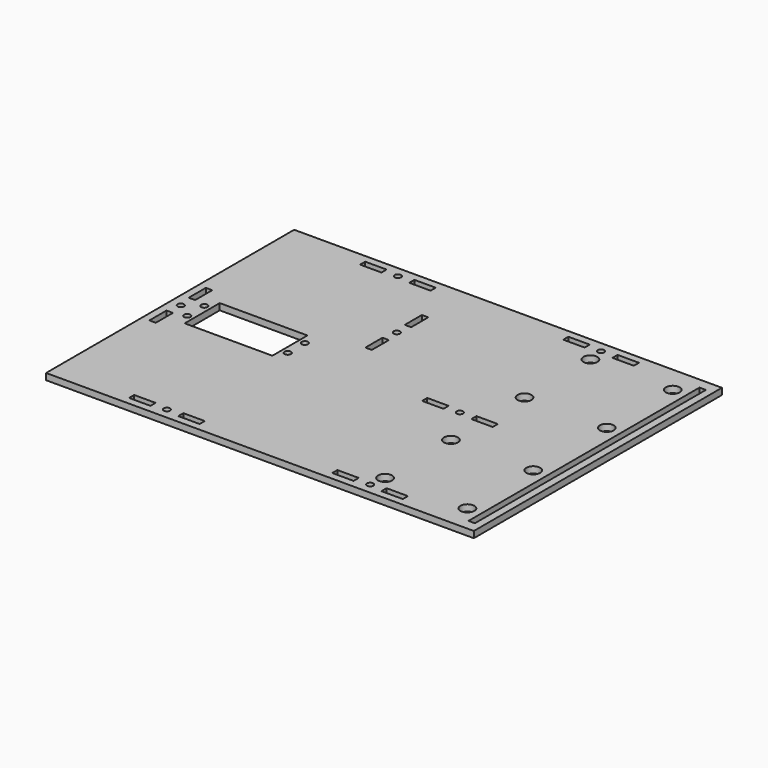
from build123d import *

# Parameters (mm, degrees)
F0_W     = 200
F0_H     = 145
F0_W_2   = 10
F0_H_2   = 3
F0_R     = 1.5
F0_W_3   = 3
F0_H_3   = 10
F0_R_2   = 3.25
F0_H_4   = 135
F0_W_4   = 41
F0_H_5   = 20.5
F1_DEPTH = 3


with BuildPart() as f1:
    # F0 (on Top) → F1 (new body)
    with BuildSketch(Plane.XY):
        with Locations((212.266122, 82.063026)):
            Rectangle(F0_W, F0_H)
        with Locations((153.266122, 14.563026)):
            Rectangle(F0_W_2, F0_H_2, mode=Mode.SUBTRACT)
        with Locations((164.766122, 14.563026)):
            Circle(F0_R, mode=Mode.SUBTRACT)
        with Locations((176.266122, 14.563026)):
            Rectangle(F0_W_2, F0_H_2, mode=Mode.SUBTRACT)
        with Locations((117.264537, 70.563026)):
            Rectangle(F0_W_3, F0_H_3, mode=Mode.SUBTRACT)
        with Locations((124.266122, 77.063026)):
            Circle(F0_R, mode=Mode.SUBTRACT)
        with Locations((171.266122, 77.063026)):
            Circle(F0_R, mode=Mode.SUBTRACT)
        with Locations((248.266122, 14.563026)):
            Rectangle(F0_W_2, F0_H_2, mode=Mode.SUBTRACT)
        with Locations((259.766122, 14.563026)):
            Circle(F0_R, mode=Mode.SUBTRACT)
        with Locations((260.766122, 22.063026)):
            Circle(F0_R_2, mode=Mode.SUBTRACT)
        with Locations((271.266122, 14.563026)):
            Rectangle(F0_W_2, F0_H_2, mode=Mode.SUBTRACT)
        with Locations((299.266122, 22.063026)):
            Circle(F0_R_2, mode=Mode.SUBTRACT)
        with Locations((260.766122, 60.563026)):
            Circle(F0_R_2, mode=Mode.SUBTRACT)
        with Locations((238.266122, 79.563026)):
            Rectangle(F0_W_2, F0_H_2, mode=Mode.SUBTRACT)
        with Locations((249.766122, 79.563026)):
            Circle(F0_R, mode=Mode.SUBTRACT)
        with Locations((261.266122, 79.563026)):
            Rectangle(F0_W_2, F0_H_2, mode=Mode.SUBTRACT)
        with Locations((299.266122, 60.563026)):
            Circle(F0_R_2, mode=Mode.SUBTRACT)
        with Locations((307.266122, 82.063026)):
            Rectangle(F0_W_3, F0_H_4, mode=Mode.SUBTRACT)
        with Locations((117.266122, 82.063026)):
            Circle(F0_R, mode=Mode.SUBTRACT)
        with Locations((124.266122, 87.063026)):
            Circle(F0_R, mode=Mode.SUBTRACT)
        with Locations((117.264537, 93.563026)):
            Rectangle(F0_W_3, F0_H_3, mode=Mode.SUBTRACT)
        with Locations((147.766122, 82.063026)):
            Rectangle(F0_W_4, F0_H_5, mode=Mode.SUBTRACT)
        with Locations((171.266122, 87.063026)):
            Circle(F0_R, mode=Mode.SUBTRACT)
        with Locations((192.264537, 103.063026)):
            Rectangle(F0_W_3, F0_H_3, mode=Mode.SUBTRACT)
        with Locations((192.266122, 114.563026)):
            Circle(F0_R, mode=Mode.SUBTRACT)
        with Locations((153.266122, 149.563026)):
            Rectangle(F0_W_2, F0_H_2, mode=Mode.SUBTRACT)
        with Locations((192.264537, 126.063026)):
            Rectangle(F0_W_3, F0_H_3, mode=Mode.SUBTRACT)
        with Locations((164.766122, 149.563026)):
            Circle(F0_R, mode=Mode.SUBTRACT)
        with Locations((176.266122, 149.563026)):
            Rectangle(F0_W_2, F0_H_2, mode=Mode.SUBTRACT)
        with Locations((260.766122, 103.563026)):
            Circle(F0_R_2, mode=Mode.SUBTRACT)
        with Locations((299.266122, 103.563026)):
            Circle(F0_R_2, mode=Mode.SUBTRACT)
        with Locations((260.766122, 142.063026)):
            Circle(F0_R_2, mode=Mode.SUBTRACT)
        with Locations((248.266122, 149.563026)):
            Rectangle(F0_W_2, F0_H_2, mode=Mode.SUBTRACT)
        with Locations((259.766122, 149.563026)):
            Circle(F0_R, mode=Mode.SUBTRACT)
        with Locations((271.266122, 149.563026)):
            Rectangle(F0_W_2, F0_H_2, mode=Mode.SUBTRACT)
        with Locations((299.266122, 142.063026)):
            Circle(F0_R_2, mode=Mode.SUBTRACT)
    extrude(amount=F1_DEPTH)


solid = f1.part
